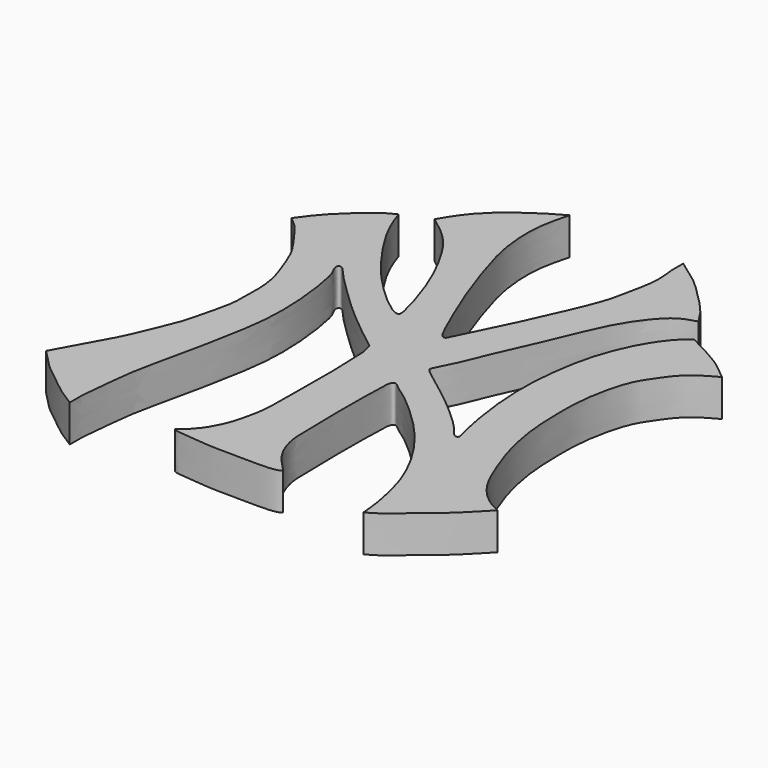
from build123d import *

# Parameters (mm, degrees)
F1_DEPTH = 5


with BuildPart() as f1:
    # F0 (on Top) → F1 (new body)
    with BuildSketch(Plane.XY):
        with BuildLine():
            add(Edge.make_bspline(
                [(-16.9540923089, 26.0060671717), (-16.3511230393, 25.5733798215), (-15.0433309525, 24.6349155891), (-12.7008415677, 22.4022869564), (-10.6785391417, 19.0748451145), (-8.2707036345, 14.3391207907), (-6.3456003558, 8.072731127), (-6.1807407285, 6.5168361351), (-7.6326742263, 6.9320568412), (-11.9187464421, 10.6806278928), (-15.6673615052, 15.1638714016), (-19.3440121934, 20.8198978447), (-20.2254168498, 23.4000240735), (-20.6058900803, 24.5137792081)],
                knots=[0, 0, 0, 0, 0.0704721761, 0.1528485097, 0.24313618, 0.3536715094, 0.4729052727, 0.5193729812, 0.5641957054, 0.6734394303, 0.7904906696, 0.9095617533, 1, 1, 1, 1], degree=3))
            add(Edge.make_bspline(
                [(-20.6058900803, 24.5137792081), (-20.9984075017, 24.3208357432), (-21.8534102199, 23.9005558323), (-23.3422257738, 22.7764968274), (-25.4749454139, 20.8725148996), (-27.2099175288, 19.1112337363), (-28.3263010345, 17.5674125666), (-28.9032198489, 16.7696047574)],
                knots=[0, 0, 0, 0, 0.1546177393, 0.3367967386, 0.5621881858, 0.7737499063, 1, 1, 1, 1], degree=3))
            add(Edge.make_bspline(
                [(-28.9032198489, 16.7696047574), (-28.4167637448, 16.3821123798), (-27.3748435523, 15.5521584965), (-25.9853525682, 13.4857071877), (-24.0858097794, 11.0214502132), (-22.9599147209, 8.1364474118), (-21.4302425376, 4.0508996574), (-21.5780157799, -0.0184756718), (-21.5533729185, -2.6076122576), (-22.6289511451, -6.5224370805), (-23.1019636695, -8.7993134186), (-24.4991970899, -11.9976720461), (-25.4922368647, -14.5071460666), (-26.7413396131, -16.964544153), (-28.8528792116, -20.7682949806), (-30.1675740629, -23.136600852)],
                knots=[0, 0, 0, 0, 0.058656633, 0.1256342141, 0.2001177811, 0.2751388353, 0.3640728234, 0.4488041761, 0.5183400932, 0.6022161716, 0.6688169664, 0.7472690876, 0.8165685305, 0.8857911977, 1, 1, 1, 1], degree=3))
            add(Edge.make_bspline(
                [(-30.1675740629, -23.136600852), (-29.7526695516, -23.5765928594), (-28.8889237136, -24.4925657031), (-27.3905725441, -26.0390443697), (-25.2281186427, -27.6205166371), (-23.254912202, -29.3090877319), (-21.6572692529, -30.2919914435), (-20.8429563791, -30.7929739356)],
                knots=[0, 0, 0, 0, 0.174810285, 0.3639190512, 0.5746634084, 0.7832074667, 1, 1, 1, 1], degree=3))
            add(Edge.make_bspline(
                [(-20.8429563791, -30.7929739356), (-20.8608619967, -30.2026600864), (-20.9040144903, -28.780005192), (-20.4673640558, -24.9118219361), (-20.0249361056, -20.5636330115), (-18.8424666176, -15.8424202871), (-17.5077953424, -9.2288872815), (-16.9443379138, -6.0586745202), (-16.3578009455, -1.7230713785), (-16.5712067047, 4.1140341944), (-17.451894525, 9.3356936382), (-18.0570964916, 10.2962510904), (-18.3593971501, 10.9891843832), (-18.1045081767, 11.4388810616), (-17.5784697208, 11.2892805661), (-16.8522231139, 10.2860159415), (-14.4177548761, 7.8871415421), (-11.332708812, 4.8752153132), (-7.9480140998, 1.9865204894), (-5.4725607549, 0.0617751182), (-4.2162085883, -0.915079494)],
                knots=[0, 0, 0, 0, 0.0444612009, 0.1071513826, 0.1740356652, 0.2458628754, 0.3283032526, 0.3859517273, 0.4511172583, 0.5310800514, 0.603297169, 0.6362072474, 0.6623955705, 0.682302977, 0.7025128392, 0.7367274211, 0.7956317135, 0.8630089022, 0.9304737199, 1, 1, 1, 1], degree=3))
            add(Edge.make_bspline(
                [(-4.2162085883, -0.915079494), (-4.0951416207, -1.4365992974), (-3.974074653, -1.9581191009), (-3.8530076854, -2.4796389043)],
                knots=[0, 0, 0, 0, 1.606163455, 1.606163455, 1.606163455, 1.606163455], degree=3))
            add(Edge.make_bspline(
                [(-3.8530076854, -2.4796389043), (-3.7668142537, -4.1972385712), (-3.5846624986, -7.8270255225), (-3.7115976376, -14.9531654808), (-3.7193442105, -16.8690669633), (-3.7209025298, -19.641058974), (-4.4882599216, -22.6348628696), (-4.8736277246, -24.0320824613), (-5.9905320299, -26.2717215879), (-7.3160472685, -27.7819828501), (-8.0430987186, -28.3647882461), (-8.3656087518, -28.6233127117)],
                knots=[0, 0, 0, 0, 0.1562424765, 0.3301857315, 0.4222726096, 0.5308364905, 0.6464186979, 0.7270291353, 0.8301854294, 0.9246725899, 1, 1, 1, 1], degree=3))
            add(Edge.make_bspline(
                [(-8.3656087518, -28.6233127117), (-8.2376425098, -28.6921783826), (-7.8624516529, -28.8940892122), (-5.8634395314, -28.9686960986), (-3.1841422009, -29.3620784814), (0.624437919, -29.3040170472), (5.4394630546, -29.4572669167), (6.2505673108, -29.0409865673), (6.5117557533, -28.9069376886)],
                knots=[0, 0, 0, 0, 0.0793530414, 0.2326592947, 0.4174146878, 0.64256558, 0.8849004444, 1, 1, 1, 1], degree=3))
            add(Edge.make_bspline(
                [(6.5117557533, -28.9069376886), (6.2171684789, -28.586380618), (5.5908053875, -27.9047995207), (4.3972424997, -26.6808020589), (3.2346474712, -24.6493113918), (2.6768520748, -22.1920806785), (2.7641166538, -19.7750332626), (2.5987015649, -15.9439261133), (2.61282183, -10.714107184), (2.7145787514, -7.2825956545), (2.7791947808, -6.2682723338), (3.0128803855, -5.8513231307), (3.4692855858, -5.8743572388), (4.114993975, -6.5485628585), (5.800158763, -7.557852709), (8.847524943, -10.2450768972), (11.6760774507, -13.0529128592), (13.9915779669, -16.0101483413), (16.2684430531, -19.7455042265), (17.9874529522, -24.0444010407), (18.8675957667, -28.5426658386), (19.0151570383, -30.3106885244), (19.0776325762, -31.0592465103)],
                knots=[0, 0, 0, 0, 0.0365075982, 0.0776238964, 0.1258893661, 0.1755588616, 0.2241245056, 0.2859900152, 0.3600902024, 0.4182303687, 0.4485731173, 0.4680851946, 0.4868514382, 0.5159173203, 0.5599119953, 0.6238713269, 0.6876316502, 0.7485447529, 0.8142559234, 0.8831671174, 0.9505344654, 1, 1, 1, 1], degree=3))
            add(Edge.make_bspline(
                [(19.0776325762, -31.0592465103), (19.6449301565, -30.7266107407), (20.7217103165, -30.095239112), (21.7886128552, -29.0703026401), (25.5030553474, -26.2281835005), (28.0726021538, -23.6604071121), (29.2882331294, -22.403134669), (29.8272483051, -21.8456555158)],
                knots=[0, 0, 0, 0, 0.164869144, 0.3129359783, 0.5736618494, 0.8109601205, 1, 1, 1, 1], degree=3))
            add(Edge.make_bspline(
                [(29.8272483051, -21.8456555158), (29.2304425005, -21.5568933805), (27.861421062, -20.8944977555), (25.2765082657, -18.3859855777), (23.6460992144, -14.3171184518), (22.3419088894, -11.0223077299), (21.1063413546, -5.7840674377), (20.9584556966, -0.5243779479), (20.9621308249, 3.5539270397), (22.1330766707, 9.4308016115), (23.9432319987, 12.0548095227), (25.942423621, 14.967273527), (28.160454988, 16.1566313757), (29.3035879731, 16.7696047574)],
                knots=[0, 0, 0, 0, 0.0661128104, 0.1516571289, 0.2464927025, 0.3328920459, 0.4382174902, 0.5424044739, 0.6361546167, 0.7458280966, 0.8276155581, 0.9111561971, 1, 1, 1, 1], degree=3))
            add(Edge.make_bspline(
                [(29.3035879731, 16.7696047574), (28.4490735489, 17.5133972629), (26.5316841963, 19.1823449015), (23.3882366532, 20.7646330785), (21.6457154602, 21.6417498887)],
                knots=[0, 0, 0, 0, 0.4456655729, 1, 1, 1, 1], degree=3))
            add(Edge.make_bspline(
                [(21.6457154602, 21.6417498887), (21.157595854, 21.2636571561), (20.0869508638, 20.4343458871), (18.4219514334, 18.1597650806), (17.0097700829, 15.4857701657), (15.5517177107, 11.6243429828), (14.7361243193, 7.0865081837), (14.3621268959, 2.8086032883), (14.4605970945, -0.9634049906), (14.8332846725, -4.7103296309), (15.6053889983, -9.1825534969), (16.1075369777, -10.6805274491), (16.1935665921, -11.424396943), (15.4610967528, -11.3740291706), (14.6892948734, -10.0264017341), (12.1327670509, -7.6839208188), (9.8641147156, -5.6851175248), (5.8099246048, -2.6113481669), (4.092243424, -1.3380509082), (4.0298929794, -0.8463987053), (5.2521625639, 1.184051044), (7.0013966984, 5.803612562), (9.9219166301, 12.009726219), (12.3372816461, 18.2441759393), (14.4804903194, 21.5713883933), (16.2150887513, 23.6320304369), (17.7241610232, 24.6611468707), (18.8666700679, 24.9766686091), (19.4366965443, 25.1340903342)],
                knots=[0, 0, 0, 0, 0.0315563059, 0.0692158242, 0.1088487362, 0.1548172791, 0.2038939632, 0.2509850274, 0.2945754209, 0.3395671965, 0.3879059504, 0.4164318916, 0.4327637194, 0.4479438939, 0.4754283378, 0.5173290626, 0.5584632394, 0.6103352318, 0.64184228, 0.6550055068, 0.687643723, 0.7387904351, 0.7993593921, 0.8583124426, 0.9032892471, 0.9398113737, 0.9699703817, 1, 1, 1, 1], degree=3))
            add(Edge.make_bspline(
                [(19.4366965443, 25.1340903342), (19.1042413619, 25.6782921671), (18.4094169278, 26.8156627079), (17.0287224434, 28.4060246037), (13.3853832477, 32.0629760319), (11.748264275, 33.1125589849), (10.5219442723, 34.0246161992), (9.8966658115, 34.4896577299)],
                knots=[0, 0, 0, 0, 0.1702887309, 0.3558999147, 0.6361065248, 0.8144572774, 1, 1, 1, 1], degree=3))
            add(Edge.make_bspline(
                [(9.8966658115, 34.4896577299), (9.8714333213, 33.8771217362), (9.8149487084, 32.5059190486), (10.3536822079, 29.6712702344), (9.2851958959, 25.2866825076), (8.96644341, 22.7925286251), (5.7108997186, 15.4725524525), (4.9088721758, 13.6369670983), (1.4680076111, 6.6983085731), (0.9699526563, 5.4416069685), (0.2231585936, 5.5266647154), (-1.3125581132, 9.0985052821), (-3.7851550386, 14.7188782717), (-6.5082353795, 22.9862773115), (-7.2015095695, 26.4606471476), (-7.5211122041, 31.1377246817), (-6.7563469116, 34.1117829076), (-6.3692266122, 35.617236048)],
                knots=[0, 0, 0, 0, 0.0471715026, 0.1055965557, 0.1762073989, 0.2344432956, 0.3275897944, 0.3844488717, 0.4780941371, 0.5149932458, 0.5366206615, 0.5994326723, 0.6888279778, 0.788900255, 0.853976976, 0.9260838883, 1, 1, 1, 1], degree=3))
            add(Edge.make_bspline(
                [(-6.3692266122, 35.617236048), (-6.9937207306, 35.283647087), (-8.4505798486, 34.5054297988), (-11.8138540455, 32.1822129063), (-14.9154814751, 29.3910000231), (-16.2836393731, 27.1192949295), (-16.9540923089, 26.0060671717)],
                knots=[0, 0, 0, 0, 0.2001543283, 0.4669325931, 0.7387753209, 1, 1, 1, 1], degree=3))
        make_face()
    extrude(amount=F1_DEPTH)


solid = f1.part
